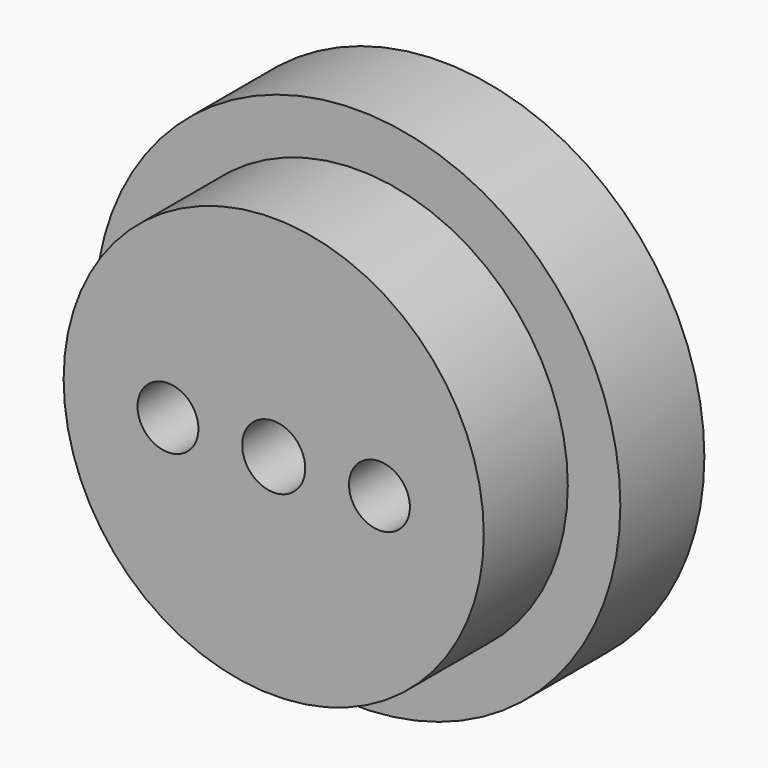
from build123d import *

# Parameters (mm, degrees)
F0_R     = 12.5
F0_R_2   = 10
F1_DEPTH = 5
F0_R_3   = 1.5
F2_DEPTH = 10
F3_R     = 1.45
F4_DEPTH = 25
F5_DEPTH = 25
F6_DEPTH = 3


with BuildPart() as f1:
    # F0 (on Front) → F1 (new body)
    with BuildSketch(Plane.XZ):
        Circle(F0_R)
        Circle(F0_R_2, mode=Mode.SUBTRACT)
    extrude(amount=F1_DEPTH)

    # F0 (on Front) → F2 (join)
    with BuildSketch(Plane.XZ):
        Circle(F0_R_2)
        Circle(F0_R_3, mode=Mode.SUBTRACT)
    extrude(amount=F2_DEPTH)

    # F3 (on Front) → F4 (cut)
    with BuildSketch(Plane.XZ):
        with Locations((-5.033278, 0)):
            Circle(F3_R)
    extrude(amount=F4_DEPTH, mode=Mode.SUBTRACT)

    # F3 (on Front) → F5 (cut)
    with BuildSketch(Plane.XZ):
        with Locations((5.033278, 0)):
            Circle(F3_R)
    extrude(amount=F5_DEPTH, mode=Mode.SUBTRACT)

    # F3 (on Front) → F6 (cut)
    with BuildSketch(Plane.XZ):
        Polygon((-6.545778, -2.619727), (-3.520778, -2.619727), (-2.008278, 0), (-3.520778, 2.619727), (-6.545778, 2.619727), (-8.058278, 0), align=None)
        with Locations((-5.033278, 0)):
            Circle(F3_R, mode=Mode.SUBTRACT)
        Polygon((6.545778, -2.619727), (8.058278, 0), (6.545778, 2.619727), (3.520778, 2.619727), (2.008278, 0), (3.520778, -2.619727), align=None)
        with Locations((5.033278, 0)):
            Circle(F3_R, mode=Mode.SUBTRACT)
    extrude(amount=F6_DEPTH, mode=Mode.SUBTRACT)


solid = f1.part
